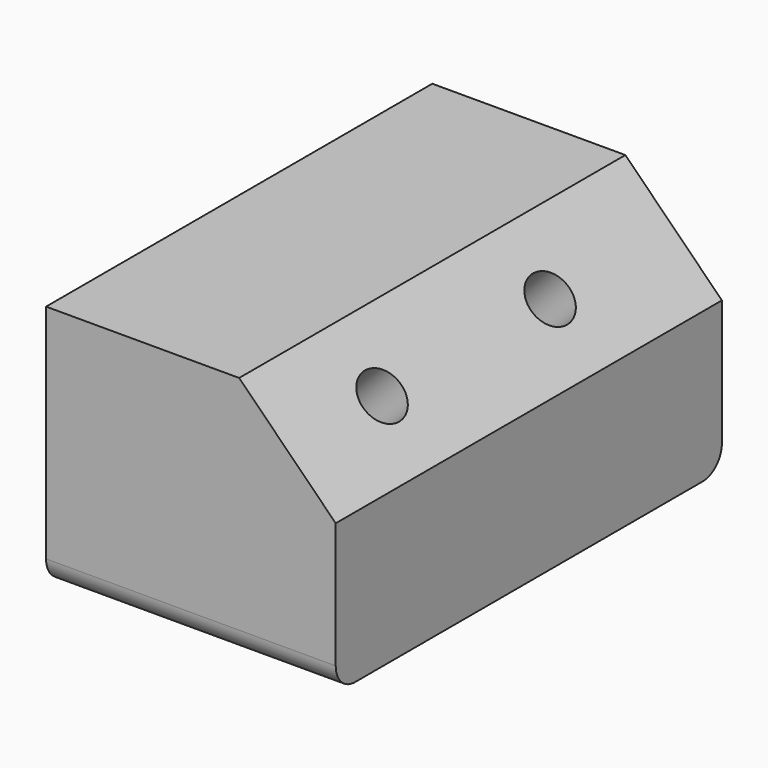
from build123d import *

# Parameters (mm, degrees)
F0_W     = 60
F0_H     = 100
F1_DEPTH = 51
F2_SIZE  = 20
F4_D     = 10
F4_DEPTH = 12
F4_TIP   = 3.0043030951
F5_R     = 5


with BuildPart() as f1:
    # F0 (on Top) → F1 (new body)
    with BuildSketch(Plane.XY):
        with Locations((30, 50)):
            Rectangle(F0_W, F0_H)
    extrude(amount=F1_DEPTH)

    # F2
    f2_edges = [f1.edges().sort_by_distance(p)[0] for p in [
        (60, 50, 51),
    ]]
    chamfer(f2_edges, length=F2_SIZE)

    # F4
    with Locations(Plane(origin=(45.5, 0, 45.5), x_dir=(0.7071067812, 0, -0.7071067812), z_dir=(0.7071067812, 0, 0.7071067812))):
        with Locations((6.3639610307, 24.4938470423), (6.3639610307, 68.0030360818)):
            Hole(F4_D / 2, depth=F4_DEPTH)
            with Locations((0, 0, -(F4_DEPTH + F4_TIP / 2))):  # 118° drill point
                Cone(0, F4_D / 2, F4_TIP, mode=Mode.SUBTRACT)

    # F5
    f5_edges = [f1.edges().sort_by_distance(p)[0] for p in [
        (30, 100, 0),
        (30, 0, 0),
    ]]
    fillet(f5_edges, radius=F5_R)


solid = f1.part
